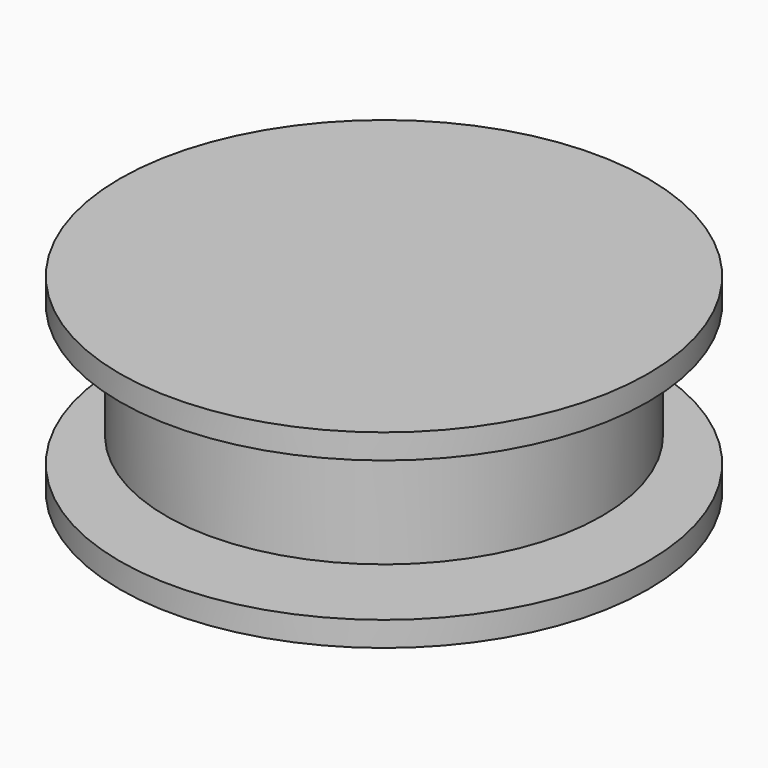
from build123d import *


with BuildPart() as f1:
    # F0 (on Front) → F1 (revolve)
    with BuildSketch(Plane.XZ):
        Polygon((0, 9), (0, 0), (16, 0), (16, 1.5), (8, 1.5), (8, 2.5), (3.8, 2.5), (3.6, 9), align=None)
    revolve(axis=Axis((0, 0, 4.5), (0, 0, 1)))


with BuildPart() as f3:
    # F2 (on Front) → F3 (revolve)
    with BuildSketch(Plane.XZ):
        Polygon((0, 11.5), (0, 10), (11.2, 10), (11.2, 3), (13.2, 3), (13.2, 10), (16, 10), (16, 11.5), align=None)
    revolve(axis=Axis((0, 0, 10.75), (0, 0, 1)))


solid = Compound([f1.part, f3.part])
